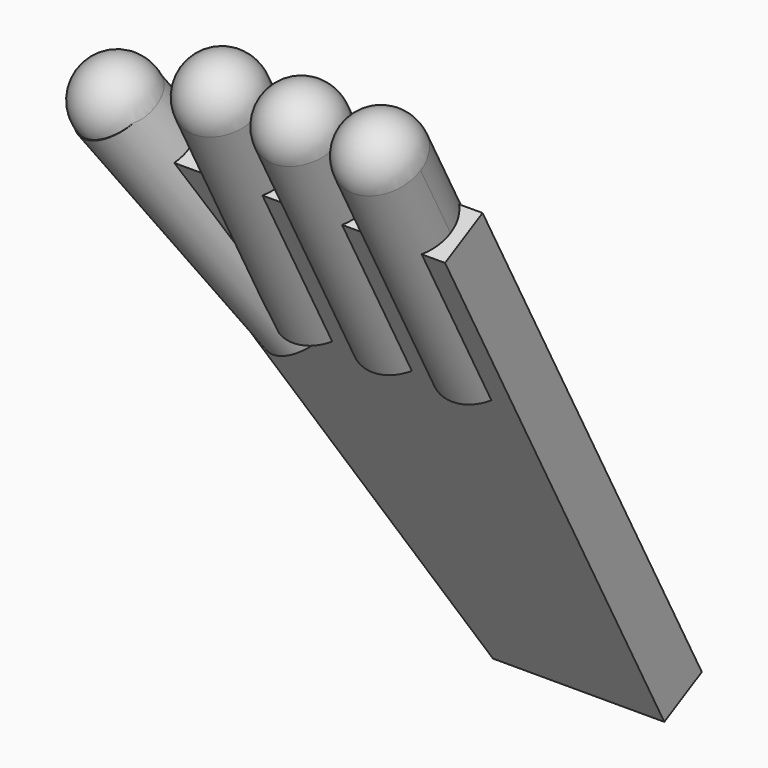
from build123d import *

# Parameters (mm, degrees)
CYLINDER081_R                     = 1.5
CYLINDER081_DEPTH                 = 10
CYLINDER081_ROLL_ANGLE            = -86.804178
CYLINDER081_PITCH_ANGLE           = 18.403125
CYLINDER081_PLACEMENT_ANGLE       = 19.43972
CYLINDER082_R                     = 1.5
CYLINDER082_DEPTH                 = 10
CYLINDER083_R                     = 1.5
CYLINDER083_DEPTH                 = 10
CYLINDER080_R                     = 1.5
CYLINDER080_DEPTH                 = 10
BOX030_W                          = 10
BOX030_H                          = 19
BOX030_DEPTH                      = 10
BOX030_PLACEMENT_ANGLE            = 16
BOX029_W                          = 11
BOX029_H                          = 22
BOX029_DEPTH                      = 2
PART_MIRRORING004_PLACEMENT_ANGLE = 118


with BuildPart() as cylindre077:
    # Cylinder081 → Cylinder081 (new body)
    with BuildSketch(Plane.XY):
        Circle(CYLINDER081_R)
    extrude(amount=CYLINDER081_DEPTH)


with BuildPart() as cylindre077_1:
    # Cylinder081 roll: moved
    add(cylindre077.part.rotate(Axis((0, 0, 0), (1, 0, 0)), CYLINDER081_ROLL_ANGLE))


with BuildPart() as cylindre077_2:
    # Cylinder081 pitch: moved
    add(cylindre077_1.part.rotate(Axis((0, 0, 0), (0, 1, 0)), CYLINDER081_PITCH_ANGLE))


with BuildPart() as cylindre077_3:
    # Cylinder081 placement: moved
    add(cylindre077_2.part.moved(Location((-5, 26, -135))).rotate(Axis((-5, 26, -135), (0, 0, 1)), CYLINDER081_PLACEMENT_ANGLE))


with BuildPart() as obj1:
    # Sphere018 → Sphere018 (revolve)
    with BuildSketch(Plane(origin=(-8.15, 35.5, -134.5), x_dir=(1, 0, 0), z_dir=(0, -1, 0))):
        with BuildLine():
            ThreePointArc((0, -1.5), (1.5, 0), (0, 1.5))
            Line((0, 1.5), (0, -1.5))
        make_face()
    revolve(axis=Axis((-8.15, 35.5, -134.5), (0, 0, 1)))


with BuildPart() as cylindre078:
    # Cylinder082 → Cylinder082 (new body)
    with BuildSketch(Plane(origin=(-4, 37, -135), x_dir=(1, 0, 0), z_dir=(0, -1, 0))):
        Circle(CYLINDER082_R)
    extrude(amount=CYLINDER082_DEPTH)


with BuildPart() as obj2:
    # Sphere017 → Sphere017 (revolve)
    with BuildSketch(Plane(origin=(-4, 37, -135), x_dir=(1, 0, 0), z_dir=(0, -1, 0))):
        with BuildLine():
            ThreePointArc((0, -1.5), (1.5, 0), (0, 1.5))
            Line((0, 1.5), (0, -1.5))
        make_face()
    revolve(axis=Axis((-4, 37, -135), (0, 0, 1)))


with BuildPart() as cylindre079:
    # Cylinder083 → Cylinder083 (new body)
    with BuildSketch(Plane(origin=(-1, 37, -135), x_dir=(1, 0, 0), z_dir=(0, -1, 0))):
        Circle(CYLINDER083_R)
    extrude(amount=CYLINDER083_DEPTH)


with BuildPart() as obj3:
    # Sphere016 → Sphere016 (revolve)
    with BuildSketch(Plane(origin=(-1, 37, -135), x_dir=(1, 0, 0), z_dir=(0, -1, 0))):
        with BuildLine():
            ThreePointArc((0, -1.5), (1.5, 0), (0, 1.5))
            Line((0, 1.5), (0, -1.5))
        make_face()
    revolve(axis=Axis((-1, 37, -135), (0, 0, 1)))


with BuildPart() as cylindre076:
    # Cylinder080 → Cylinder080 (new body)
    with BuildSketch(Plane(origin=(2, 37, -135), x_dir=(1, 0, 0), z_dir=(0, -1, 0))):
        Circle(CYLINDER080_R)
    extrude(amount=CYLINDER080_DEPTH)


with BuildPart() as obj4:
    # Sphere015 → Sphere015 (revolve)
    with BuildSketch(Plane(origin=(2, 37, -135), x_dir=(1, 0, 0), z_dir=(0, -1, 0))):
        with BuildLine():
            ThreePointArc((0, -1.5), (1.5, 0), (0, 1.5))
            Line((0, 1.5), (0, -1.5))
        make_face()
    revolve(axis=Axis((2, 37, -135), (0, 0, 1)))


with BuildPart() as cube030:
    # Box030 → Box030 (new body)
    with BuildSketch(Plane.XY):
        with Locations((5, 9.5)):
            Rectangle(BOX030_W, BOX030_H)
    extrude(amount=BOX030_DEPTH)


with BuildPart() as cube030_1:
    # Box030 placement: moved
    add(cube030.part.moved(Location((-12, 9, -144))).rotate(Axis((-12, 9, -144), (0, 0, 1)), BOX030_PLACEMENT_ANGLE))


with BuildPart() as fusion042:
    # Box029 → Box029 (new body)
    with BuildSketch(Plane(origin=(-7, 12, -136), x_dir=(1, 0, 0), z_dir=(0, 0, 1))):
        with Locations((5.5, 11)):
            Rectangle(BOX029_W, BOX029_H)
    extrude(amount=BOX029_DEPTH)

    # Cut043: cut Cube030
    add(cube030_1.part, mode=Mode.SUBTRACT)

    # Fusion042: union Cylindre077, obj1, Cylindre078, obj2, Cylindre079, obj3, Cylindre076, obj4
    add(cylindre077_3.part)
    add(obj1.part)
    add(cylindre078.part)
    add(obj2.part)
    add(cylindre079.part)
    add(obj3.part)
    add(cylindre076.part)
    add(obj4.part)


with BuildPart() as fusion042_1:
    # Fusion042 placement: moved
    add(fusion042.part.moved(Location((0, -9, -4))))


with BuildPart() as part_mirroring004:
    # Part__Mirroring004: instance of Fusion042
    add(fusion042_1.part.mirror(Plane(origin=(2e-06, 12.389896, 17.518646), x_dir=(0, -1, 0), z_dir=(1, 0, 0))))


with BuildPart() as part_mirroring004_1:
    # Part__Mirroring004 placement: moved
    add(part_mirroring004.part.moved(Location((20, -100, -64))).rotate(Axis((20, -100, -64), (1, 0, 0)), PART_MIRRORING004_PLACEMENT_ANGLE))


with BuildPart() as part_mirroring006:
    # Part__Mirroring006: instance of Part__Mirroring004
    add(part_mirroring004_1.part.mirror(Plane(origin=(0, 0, 0), x_dir=(0, -1, 0), z_dir=(1, 0, 0))))


with BuildPart() as part_mirroring006_1:
    # Part__Mirroring006 placement: moved
    add(part_mirroring006.part.moved(Location((20, -2, 2))))


solid = part_mirroring006_1.part
